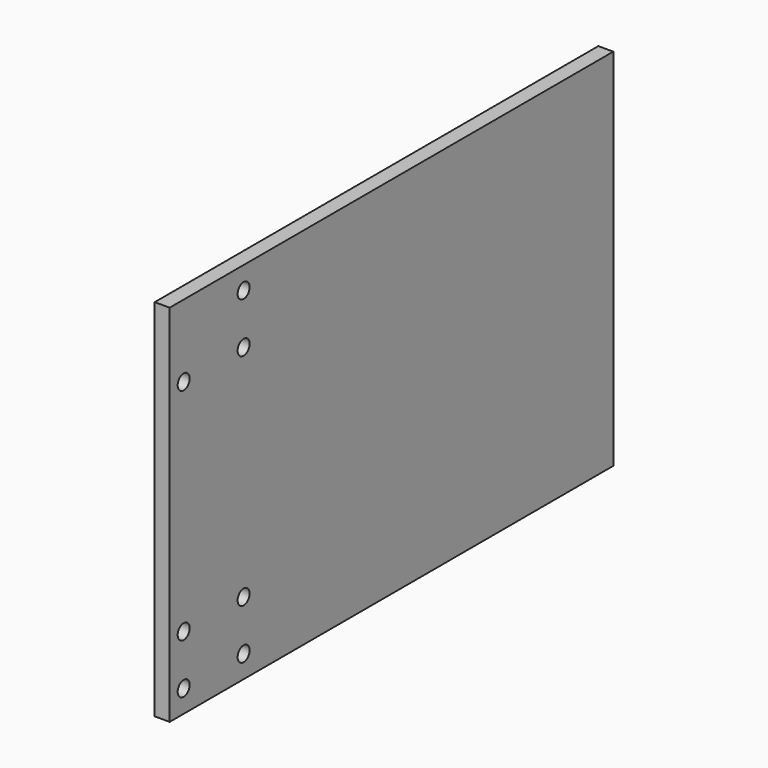
from build123d import *

# Parameters (mm, degrees)
CYLINDER022_R           = 1.5
CYLINDER022_DEPTH       = 3
CYLINDER022_PITCH_ANGLE = 90
CYLINDER021_R           = 1.5
CYLINDER021_DEPTH       = 3
CYLINDER021_PITCH_ANGLE = 90
CYLINDER020_R           = 1.5
CYLINDER020_DEPTH       = 3
CYLINDER020_PITCH_ANGLE = 90
CYLINDER019_R           = 1.5
CYLINDER019_DEPTH       = 3
CYLINDER019_PITCH_ANGLE = 90
CYLINDER018_R           = 1.5
CYLINDER018_DEPTH       = 3
CYLINDER018_PITCH_ANGLE = 90
CYLINDER017_R           = 1.5
CYLINDER017_DEPTH       = 3
CYLINDER017_PITCH_ANGLE = 90
CYLINDER_R              = 1.5
CYLINDER_DEPTH          = 3
CYLINDER_PITCH_ANGLE    = 90
BOX014_W                = 111
BOX014_H                = 3
BOX014_DEPTH            = 73
BOX014_PLACEMENT_ANGLE  = 90


with BuildPart() as cylinder022:
    # Cylinder022 → Cylinder022 (new body)
    with BuildSketch(Plane.XY):
        Circle(CYLINDER022_R)
    extrude(amount=CYLINDER022_DEPTH)


with BuildPart() as cylinder022_1:
    # Cylinder022 pitch: moved
    add(cylinder022.part.rotate(Axis((0, 0, 0), (0, 1, 0)), CYLINDER022_PITCH_ANGLE))


with BuildPart() as cylinder022_2:
    # Cylinder022 placement: moved
    add(cylinder022_1.part.moved(Location((125, -8.5, 53.5))))


with BuildPart() as cylinder021:
    # Cylinder021 → Cylinder021 (new body)
    with BuildSketch(Plane.XY):
        Circle(CYLINDER021_R)
    extrude(amount=CYLINDER021_DEPTH)


with BuildPart() as cylinder021_1:
    # Cylinder021 pitch: moved
    add(cylinder021.part.rotate(Axis((0, 0, 0), (0, 1, 0)), CYLINDER021_PITCH_ANGLE))


with BuildPart() as cylinder021_2:
    # Cylinder021 placement: moved
    add(cylinder021_1.part.moved(Location((125, -23.5, 53.5))))


with BuildPart() as cylinder020:
    # Cylinder020 → Cylinder020 (new body)
    with BuildSketch(Plane.XY):
        Circle(CYLINDER020_R)
    extrude(amount=CYLINDER020_DEPTH)


with BuildPart() as cylinder020_1:
    # Cylinder020 pitch: moved
    add(cylinder020.part.rotate(Axis((0, 0, 0), (0, 1, 0)), CYLINDER020_PITCH_ANGLE))


with BuildPart() as cylinder020_2:
    # Cylinder020 placement: moved
    add(cylinder020_1.part.moved(Location((125, -8.5, 63.5))))


with BuildPart() as cylinder019:
    # Cylinder019 → Cylinder019 (new body)
    with BuildSketch(Plane.XY):
        Circle(CYLINDER019_R)
    extrude(amount=CYLINDER019_DEPTH)


with BuildPart() as cylinder019_1:
    # Cylinder019 pitch: moved
    add(cylinder019.part.rotate(Axis((0, 0, 0), (0, 1, 0)), CYLINDER019_PITCH_ANGLE))


with BuildPart() as cylinder019_2:
    # Cylinder019 placement: moved
    add(cylinder019_1.part.moved(Location((125, -23.5, -0.5))))


with BuildPart() as cylinder018:
    # Cylinder018 → Cylinder018 (new body)
    with BuildSketch(Plane.XY):
        Circle(CYLINDER018_R)
    extrude(amount=CYLINDER018_DEPTH)


with BuildPart() as cylinder018_1:
    # Cylinder018 pitch: moved
    add(cylinder018.part.rotate(Axis((0, 0, 0), (0, 1, 0)), CYLINDER018_PITCH_ANGLE))


with BuildPart() as cylinder018_2:
    # Cylinder018 placement: moved
    add(cylinder018_1.part.moved(Location((125, -23.5, 9.5))))


with BuildPart() as cylinder017:
    # Cylinder017 → Cylinder017 (new body)
    with BuildSketch(Plane.XY):
        Circle(CYLINDER017_R)
    extrude(amount=CYLINDER017_DEPTH)


with BuildPart() as cylinder017_1:
    # Cylinder017 pitch: moved
    add(cylinder017.part.rotate(Axis((0, 0, 0), (0, 1, 0)), CYLINDER017_PITCH_ANGLE))


with BuildPart() as cylinder017_2:
    # Cylinder017 placement: moved
    add(cylinder017_1.part.moved(Location((125, -8.5, 9.5))))


with BuildPart() as cylinder:
    # Cylinder → Cylinder (new body)
    with BuildSketch(Plane.XY):
        Circle(CYLINDER_R)
    extrude(amount=CYLINDER_DEPTH)


with BuildPart() as cylinder_1:
    # Cylinder pitch: moved
    add(cylinder.part.rotate(Axis((0, 0, 0), (0, 1, 0)), CYLINDER_PITCH_ANGLE))


with BuildPart() as cylinder_2:
    # Cylinder placement: moved
    add(cylinder_1.part.moved(Location((125, -8.5, -0.5))))


with BuildPart() as cut032:
    # Box014 → Box014 (new body)
    with BuildSketch(Plane.XY):
        with Locations((55.5, 1.5)):
            Rectangle(BOX014_W, BOX014_H)
    extrude(amount=BOX014_DEPTH)


with BuildPart() as cut032_1:
    # Box014 placement: moved
    add(cut032.part.moved(Location((128, -27, -5))).rotate(Axis((128, -27, -5), (0, 0, 1)), BOX014_PLACEMENT_ANGLE))

    # Cut026: cut Cylinder
    add(cylinder_2.part, mode=Mode.SUBTRACT)

    # Cut027: cut Cylinder017
    add(cylinder017_2.part, mode=Mode.SUBTRACT)

    # Cut028: cut Cylinder018
    add(cylinder018_2.part, mode=Mode.SUBTRACT)

    # Cut029: cut Cylinder019
    add(cylinder019_2.part, mode=Mode.SUBTRACT)

    # Cut030: cut Cylinder020
    add(cylinder020_2.part, mode=Mode.SUBTRACT)

    # Cut031: cut Cylinder021
    add(cylinder021_2.part, mode=Mode.SUBTRACT)

    # Cut032: cut Cylinder022
    add(cylinder022_2.part, mode=Mode.SUBTRACT)


solid = cut032_1.part
